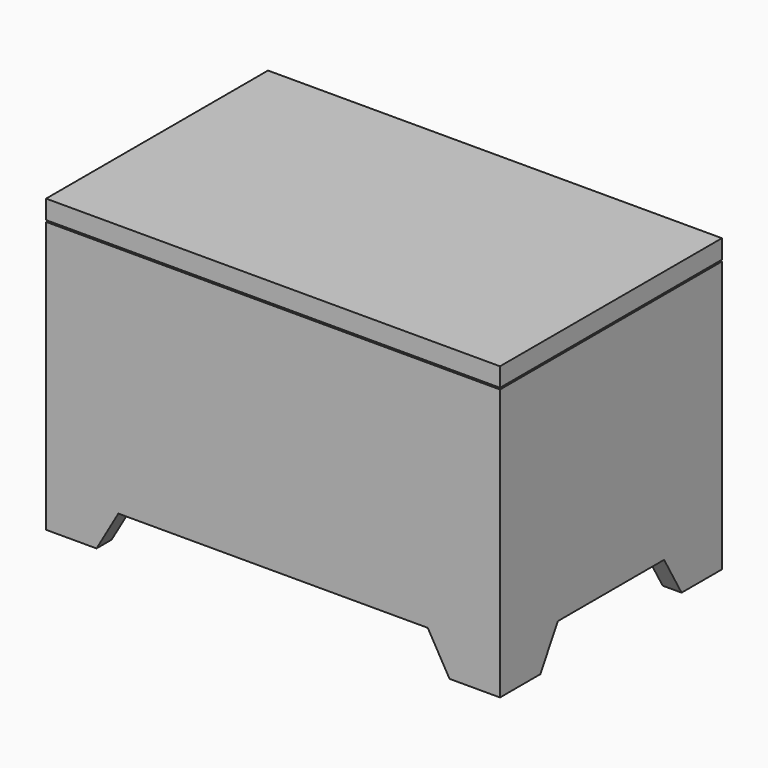
from build123d import *

# Parameters (mm, degrees)
F0_W     = 457.2
F0_H     = 279.4
F1_DEPTH = 273.05
F2_T     = -19.05
F4_DEPTH = 279.401
F6_DEPTH = 457.201
F7_W     = 457.2
F7_H     = 19.05
F8_DEPTH = 139.7


with BuildPart() as f1:
    # F0 (on Top) → F1 (new body)
    with BuildSketch(Plane.XY):
        Rectangle(F0_W, F0_H)
    extrude(amount=F1_DEPTH)

    # F2
    f2_openings = [f1.faces().sort_by_distance(p)[0] for p in [
        (0, 0, 273.05),
        (0, 0, 0),
    ]]
    offset(amount=F2_T, openings=f2_openings)

    # F3 (on face) → F4 (cut, through all)
    with BuildSketch(Plane.XZ.offset(139.7)):
        Polygon((-155.802955, 38.1), (-177.8, 0), (177.8, 0), (155.802955, 38.1), align=None)
    extrude(amount=-F4_DEPTH, mode=Mode.SUBTRACT)

    # F5 (on face) → F6 (cut, through all)
    with BuildSketch(Plane(origin=(-228.6, 0, 0), x_dir=(0, -1, 0), z_dir=(-1, 0, 0))):
        Polygon((-88.9, 0), (88.9, 0), (66.902955, 38.1), (-66.902955, 38.1), align=None)
    extrude(amount=-F6_DEPTH, mode=Mode.SUBTRACT)


with BuildPart() as f8:
    # F7 (on Front) → F8 (new body, symmetric)
    with BuildSketch(Plane.XZ):
        with Locations((0, 284.1625)):
            Rectangle(F7_W, F7_H)
    extrude(amount=F8_DEPTH, both=True)


solid = Compound([f1.part, f8.part])
